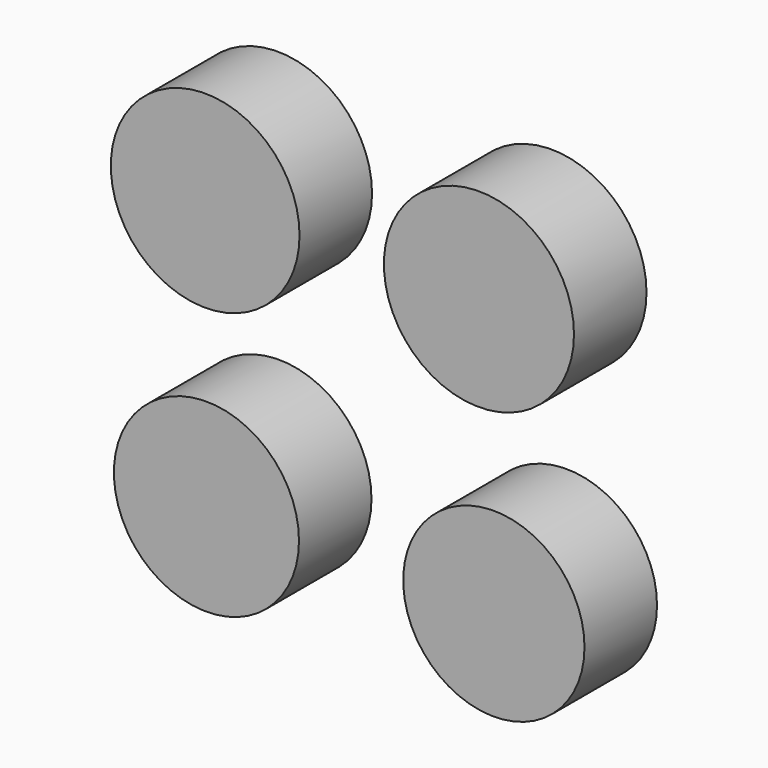
from build123d import *

# Parameters (mm, degrees)
F0_R          = 26.441884
F0_R_2        = 26.632414
F0_R_3        = 25.932532
F0_R_4        = 25.4
F1_DEPTH      = 12.7
F1_DEPTH_BACK = 12.7


with BuildPart() as f1:
    # F0 (on Front) → F1 (new body, two sides)
    with BuildSketch(Plane.XZ) as f1_sk:
        with Locations((-40.347241, 36.307007)):
            Circle(F0_R)
        with Locations((36.369018, 36.933262)):
            Circle(F0_R_2)
        with Locations((-39.993554, -39.072676)):
            Circle(F0_R_3)
        with Locations((40.545486, -39.29317)):
            Circle(F0_R_4)
    extrude(amount=F1_DEPTH)
    extrude(f1_sk.sketch, amount=-F1_DEPTH_BACK)


solid = f1.part
